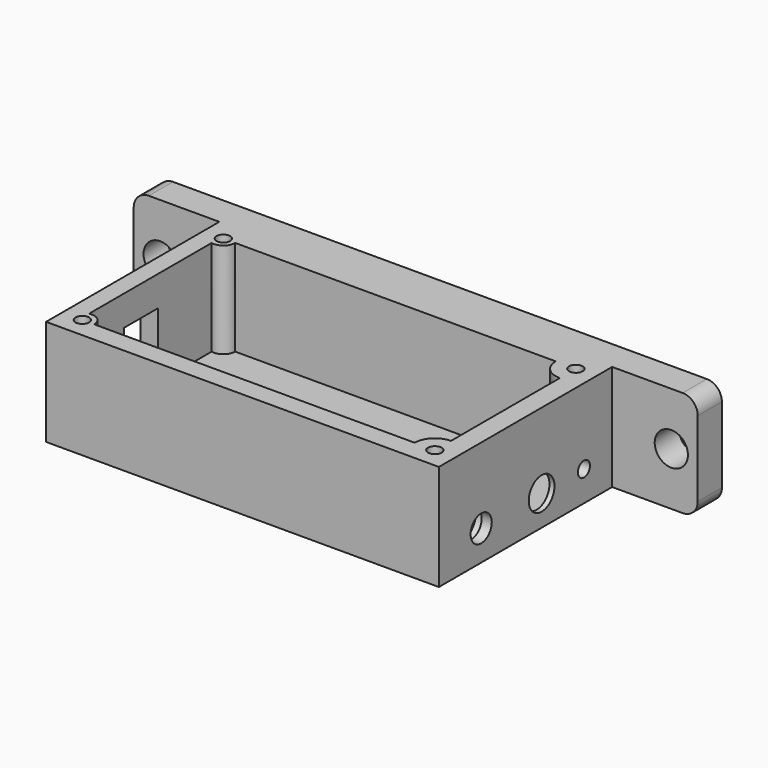
from build123d import *

# Parameters (mm, degrees)
F0_W      = 78
F0_H      = 43
F1_DEPTH  = 21
F2_R      = 1.35
F3_DEPTH  = 19
F5_DEPTH  = 19
F7_R      = 3.2
F7_R_2    = 1.5
F7_R_3    = 2.625
F8_DEPTH  = 10
F9_W      = 112
F9_H      = 21
F10_DEPTH = 6
F11_R     = 3.3
F12_DEPTH = 49.001
F13_R     = 3
F14_W     = 15
F14_H     = 12
F15_DEPTH = 3
F16_W     = 74
F16_H     = 11
F17_DEPTH = 7
F19_R     = 3.75
F20_DEPTH = 7
F22_W     = 8.5
F22_H     = 8
F23_DEPTH = 3.5


with BuildPart() as f1:
    # F0 (on Top) → F1 (new body)
    with BuildSketch(Plane.XY):
        Rectangle(F0_W, F0_H)
    extrude(amount=F1_DEPTH)

    # F2 (on face) → F3 (cut)
    with BuildSketch(Plane.XY.offset(21)):
        with BuildLine():
            Line((31, 17.5), (-31, 17.5))
            Line((-31, 17.5), (-31, -17.5))
            Line((-31, -17.5), (31, -17.5))
            ThreePointArc((31, -17.5), (32.1715728753, -14.6715728753), (35, -13.5))
            Line((35, -13.5), (35, 13.5))
            ThreePointArc((35, 13.5), (32.1715728753, 14.6715728753), (31, 17.5))
        make_face()
        with Locations((-35, 17.5)):
            Circle(F2_R)
        with Locations((35, 17.5)):
            Circle(F2_R)
        with Locations((-35, -17.5)):
            Circle(F2_R)
        with Locations((35, -17.5)):
            Circle(F2_R)
    extrude(amount=-F3_DEPTH, mode=Mode.SUBTRACT)

    # F4 (on face) → F5 (cut)
    with BuildSketch(Plane.XY.offset(21)):
        with BuildLine():
            ThreePointArc((-32.65, 17.5), (-33.5256357302, 15.6700409841), (-35.5, 15.2038074994))
            Line((-35.5, 15.2038074994), (-35.5, -15.2038074994))
            ThreePointArc((-35.5, -15.2038074994), (-33.5256357302, -15.6700409841), (-32.65, -17.5))
            Line((-32.65, -17.5), (-31, -17.5))
            Line((-31, -17.5), (-31, 17.5))
            Line((-31, 17.5), (-32.65, 17.5))
        make_face()
    extrude(amount=-F5_DEPTH, mode=Mode.SUBTRACT)

    # F7 (on face) → F8 (cut)
    with BuildSketch(Plane.YZ.offset(39)):
        with Locations((4, 6)):
            Circle(F7_R)
        with Locations((14.5, 6)):
            Circle(F7_R_2)
        with Locations((-11, 6)):
            Circle(F7_R_3)
    extrude(amount=-F8_DEPTH, mode=Mode.SUBTRACT)

    # F9 (on face) → F10 (join)
    with BuildSketch(Plane(origin=(0, 21.5, 0), x_dir=(-1, 0, 0), z_dir=(0, 1, 0))):
        with Locations((0, 10.5)):
            Rectangle(F9_W, F9_H)
    extrude(amount=F10_DEPTH)

    # F11 (on face) → F12 (cut, through all)
    with BuildSketch(Plane(origin=(0, 27.5, 0), x_dir=(-1, 0, 0), z_dir=(0, 1, 0))):
        with Locations((50.75, 10.5)):
            Circle(F11_R)
        with Locations((-50.75, 10.5)):
            Circle(F11_R)
    extrude(amount=-F12_DEPTH, mode=Mode.SUBTRACT)

    # F13
    f13_edges = [f1.edges().sort_by_distance(p)[0] for p in [
        (56, 24.5, 21),
        (56, 24.5, 0),
        (-56, 24.5, 0),
        (-56, 24.5, 21),
    ]]
    fillet(f13_edges, radius=F13_R)

    # F14 (on face) → F15 (cut)
    with BuildSketch(Plane(origin=(35, 0, 0), x_dir=(0, -1, 0), z_dir=(-1, 0, 0))):
        with Locations((-4, 8)):
            Rectangle(F14_W, F14_H)
    extrude(amount=-F15_DEPTH, mode=Mode.SUBTRACT)

    # F16 (on face) → F17 (cut)
    with BuildSketch(Plane(origin=(0, 27.5, 0), x_dir=(-1, 0, 0), z_dir=(0, 1, 0))):
        with Locations((0, 10.5)):
            Rectangle(F16_W, F16_H)
    extrude(amount=-F17_DEPTH, mode=Mode.SUBTRACT)

    # F19 (on offset) → F20 (cut)
    with BuildSketch(Plane(origin=(30, 0, 0), x_dir=(0, -1, 0), z_dir=(-1, 0, 0))):
        with Locations((11, 6)):
            Circle(F19_R)
    extrude(amount=-F20_DEPTH, mode=Mode.SUBTRACT)

    # F22 (on face) → F23 (cut, through all)
    with BuildSketch(Plane(origin=(-39, 0, 0), x_dir=(0, -1, 0), z_dir=(-1, 0, 0))):
        with Locations((2.3, 11)):
            Rectangle(F22_W, F22_H)
    extrude(amount=-F23_DEPTH, mode=Mode.SUBTRACT)


solid = f1.part
